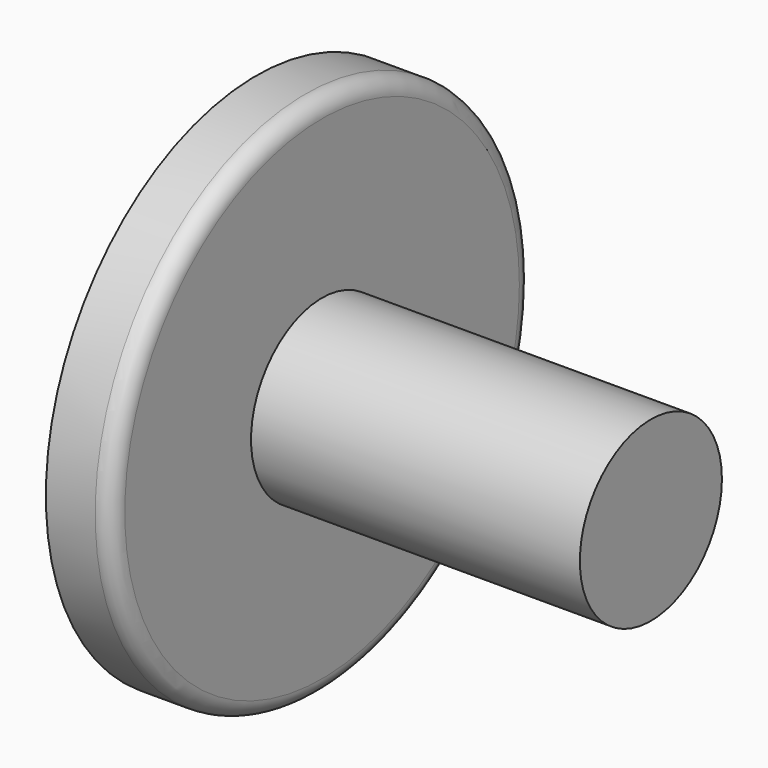
from build123d import *

# Parameters (mm, degrees)
F0_R     = 8
F1_DEPTH = 2
F2_R     = 2.7
F3_DEPTH = 10
F4_R     = 0.5


with BuildPart() as f1:
    # F0 (on Right) → F1 (new body)
    with BuildSketch(Plane.YZ):
        with Locations((-26.541635, 17.838527)):
            Circle(F0_R)
    extrude(amount=F1_DEPTH)

    # F2 (on face) → F3 (join)
    with BuildSketch(Plane.YZ.offset(2)):
        with Locations((-26.541635, 17.838527)):
            Circle(F2_R)
    extrude(amount=F3_DEPTH)

    # F4
    f4_edges = [f1.edges().sort_by_distance(p)[0] for p in [
        (2, -34.541635, 17.838527),
    ]]
    fillet(f4_edges, radius=F4_R)


solid = f1.part
